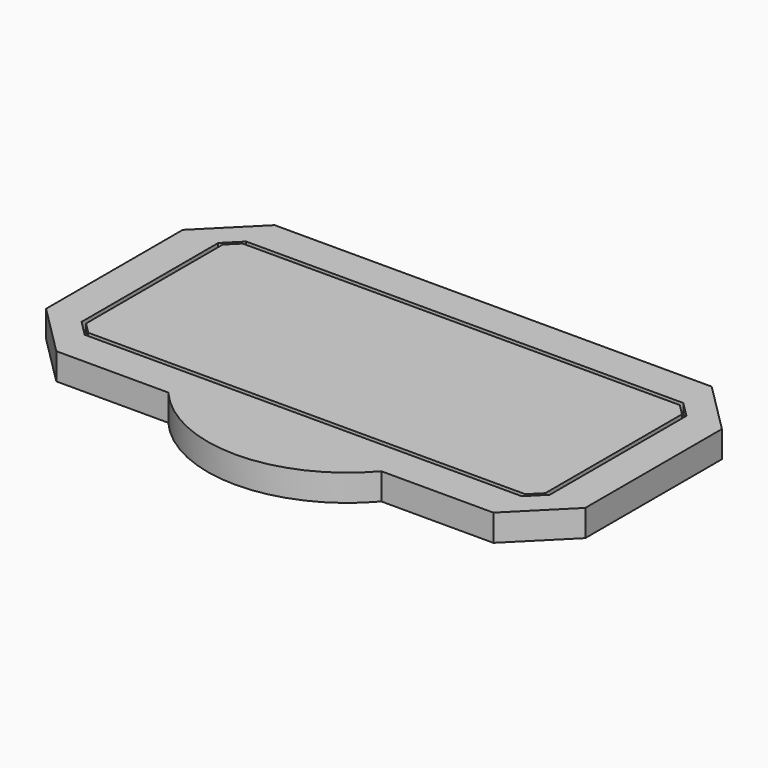
from build123d import *

# Parameters (mm, degrees)
F1_DEPTH = 19.05
F2_DEPTH = 12.7
F3_DEPTH = 19.05


with BuildPart() as f1:
    # F0 (on Top) → F1 (new body)
    with BuildSketch(Plane.XY):
        Polygon((-170.413183, 61.813528), (-178.363383, 53.863328), (-178.363383, -68.348772), (-170.413183, -76.298972), (142.298917, -76.298972), (150.249117, -68.348772), (150.249117, 53.876028), (142.311617, 61.813528), align=None)
    extrude(amount=F1_DEPTH)

    # F0 (on Top) → F2 (join)
    with BuildSketch(Plane.XY):
        Polygon((153.424117, 53.876028), (142.311617, 64.988528), (-170.413183, 64.988528), (-181.538383, 53.863328), (-181.538383, -68.348772), (-170.413183, -79.473972), (142.298917, -79.473972), (153.424117, -68.348772), align=None)
        Polygon((-178.363383, -68.348772), (-178.363383, 53.863328), (-170.413183, 61.813528), (142.311617, 61.813528), (150.249117, 53.876028), (150.249117, -68.348772), (142.298917, -76.298972), (-170.413183, -76.298972), align=None, mode=Mode.SUBTRACT)
    extrude(amount=F2_DEPTH)

    # F0 (on Top) → F3 (join)
    with BuildSketch(Plane.XY):
        with BuildLine():
            Line((178.824117, 53.876028), (142.311617, 90.388528))
            Line((142.311617, 90.388528), (-170.413183, 90.388528))
            Line((-170.413183, 90.388528), (-206.938383, 53.863328))
            Line((-206.938383, 53.863328), (-206.938383, -68.348772))
            Line((-206.938383, -68.348772), (-170.413183, -104.873972))
            Line((-170.413183, -104.873972), (-90.257133, -104.873972))
            ThreePointArc((-90.257133, -104.873972), (-14.057133, -140.022369), (62.142867, -104.873972))
            Line((62.142867, -104.873972), (142.298917, -104.873972))
            Line((142.298917, -104.873972), (178.824117, -68.348772))
            Line((178.824117, -68.348772), (178.824117, 53.876028))
        make_face()
        Polygon((-170.413183, 64.988528), (142.311617, 64.988528), (153.424117, 53.876028), (153.424117, -68.348772), (142.298917, -79.473972), (-170.413183, -79.473972), (-181.538383, -68.348772), (-181.538383, 53.863328), align=None, mode=Mode.SUBTRACT)
    extrude(amount=F3_DEPTH)


solid = f1.part
